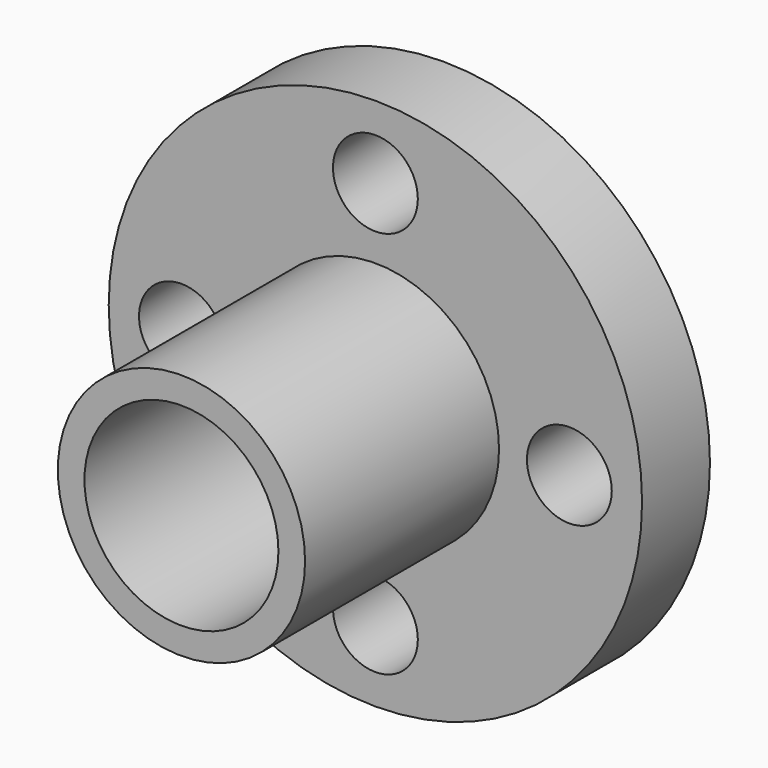
from build123d import *

# Parameters (mm, degrees)
SKETCH_R        = 11
SKETCH_R_2      = 4
PAD_DEPTH       = 15
SKETCH001_R     = 11
SKETCH001_R_2   = 5.1
POCKET_DEPTH    = 10
SKETCH002_R     = 11
SKETCH002_R_2   = 5.1
POCKET001_DEPTH = 1.5
SKETCH003_R     = 1.75
POCKET002_DEPTH = 3.5


with BuildPart() as part:
    # Sketch → Pad (new body)
    with BuildSketch(Plane.XZ):
        Circle(SKETCH_R)
        Circle(SKETCH_R_2, mode=Mode.SUBTRACT)
    extrude(amount=PAD_DEPTH)

    # Sketch001 (on Face4 of Pad) → Pocket (cut)
    with BuildSketch(Plane.XZ.offset(15)):
        Circle(SKETCH001_R)
        Circle(SKETCH001_R_2, mode=Mode.SUBTRACT)
    extrude(amount=-POCKET_DEPTH, mode=Mode.SUBTRACT)

    # Sketch002 (on Face2 of Pocket) → Pocket001 (cut)
    with BuildSketch(Plane(origin=(0, 0, 0), x_dir=(1, 0, 0), z_dir=(0, 1, 0))):
        Circle(SKETCH002_R)
        Circle(SKETCH002_R_2, mode=Mode.SUBTRACT)
    extrude(amount=-POCKET001_DEPTH, mode=Mode.SUBTRACT)

    # Sketch003 (on Face2 of Pocket001) → Pocket002 (cut)
    with BuildSketch(Plane(origin=(0, -1.5, 0), x_dir=(1, 0, 0), z_dir=(0, 1, 0))):
        with Locations((0, 8)):
            Circle(SKETCH003_R)
        with Locations((8, 0)):
            Circle(SKETCH003_R)
        with Locations((0, -8)):
            Circle(SKETCH003_R)
        with Locations((-8, 0)):
            Circle(SKETCH003_R)
    extrude(amount=-POCKET002_DEPTH, mode=Mode.SUBTRACT)


solid = part.part
